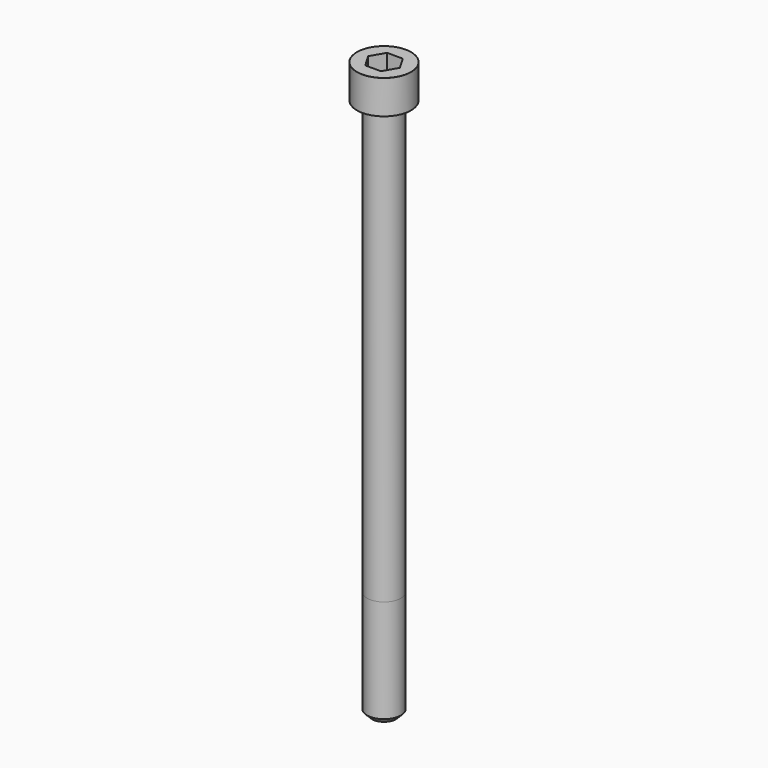
from build123d import *

# Parameters (mm, degrees)
POCKET_DEPTH = 8.07


with BuildPart() as part:
    # Sketch → Revolve (revolve)
    with BuildSketch(Plane.YZ):
        with BuildLine():
            Line((4.999, 0), (8, 0))
            Line((8, 0), (8, 9.97229))
            ThreePointArc((8, 9.97229), (7.991884, 9.991884), (7.97229, 10))
            Line((7.97229, 10), (0, 10))
            Line((0, -160), (0, 10))
            Line((3.5, -160), (0, -160))
            Line((5, -158.5), (3.5, -160))
            Line((5, -128), (5, -158.5))
            Line((4.999, 0), (5, -128))
        make_face()
    revolve(axis=Axis((0, 0, 0), (0, 0, 1)))

    # Sketch001 → Pocket (cut)
    with BuildSketch(Plane.XY.offset(10)):
        Polygon((4.659217, 0), (2.329608, 4.035), (-2.329608, 4.035), (-4.659217, 0), (-2.329608, -4.035), (2.329608, -4.035), align=None)
    extrude(amount=-POCKET_DEPTH, mode=Mode.SUBTRACT)


solid = part.part
